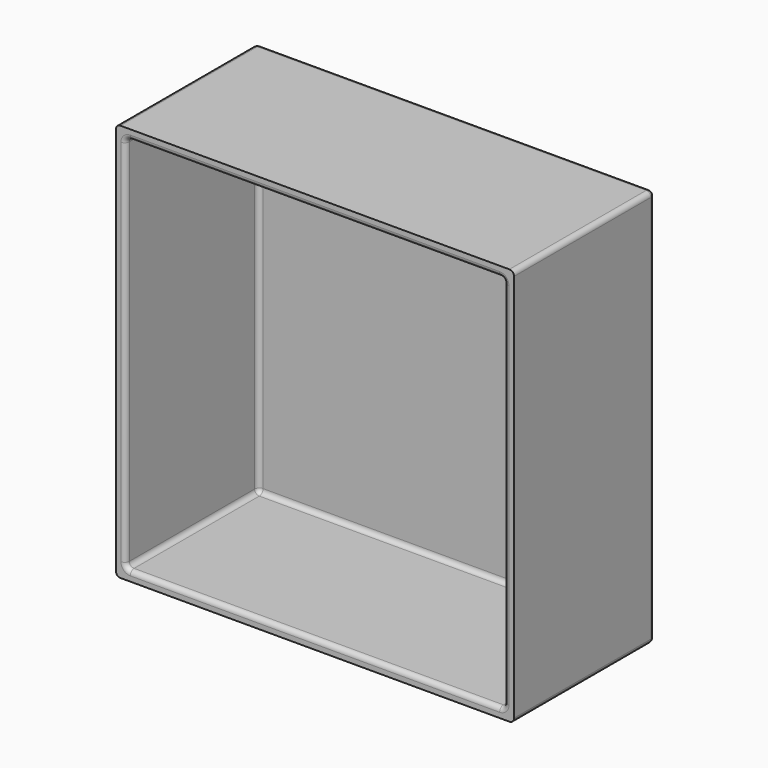
from build123d import *

# Parameters (mm, degrees)
F0_W     = 129.54
F0_H     = 129.54
F1_DEPTH = 57.15
F2_T     = -3.175
F3_R     = 1.524
F4_R     = 1.524
F5_R     = 1.524


with BuildPart() as f1:
    # F0 (on Front) → F1 (new body)
    with BuildSketch(Plane.XZ):
        with Locations((64.77, 64.77)):
            Rectangle(F0_W, F0_H)
    extrude(amount=-F1_DEPTH)

    # F2
    f2_openings = [f1.faces().sort_by_distance(p)[0] for p in [
        (64.77, 0, 64.77),
    ]]
    offset(amount=F2_T, openings=f2_openings)

    # F3
    f3_edges = [f1.edges().sort_by_distance(p)[0] for p in [
        (3.175, 26.9875, 126.365),
        (64.77, 53.975, 126.365),
        (3.175, 53.975, 64.77),
        (3.175, 26.9875, 3.175),
        (64.77, 53.975, 3.175),
        (126.365, 53.975, 64.77),
        (126.365, 26.9875, 126.365),
        (126.365, 26.9875, 3.175),
    ]]
    fillet(f3_edges, radius=F3_R)

    # F4
    f4_edges = [f1.edges().sort_by_distance(p)[0] for p in [
        (129.54, 28.575, 0),
        (64.77, 57.15, 0),
        (129.54, 57.15, 64.77),
        (129.54, 28.575, 129.54),
        (64.77, 57.15, 129.54),
        (0, 28.575, 129.54),
        (0, 57.15, 64.77),
        (0, 28.575, 0),
    ]]
    fillet(f4_edges, radius=F4_R)

    # F5
    f5_edges = [f1.edges().sort_by_distance(p)[0] for p in [
        (64.77, 0, 3.175),
    ]]
    fillet(f5_edges, radius=F5_R)


solid = f1.part
